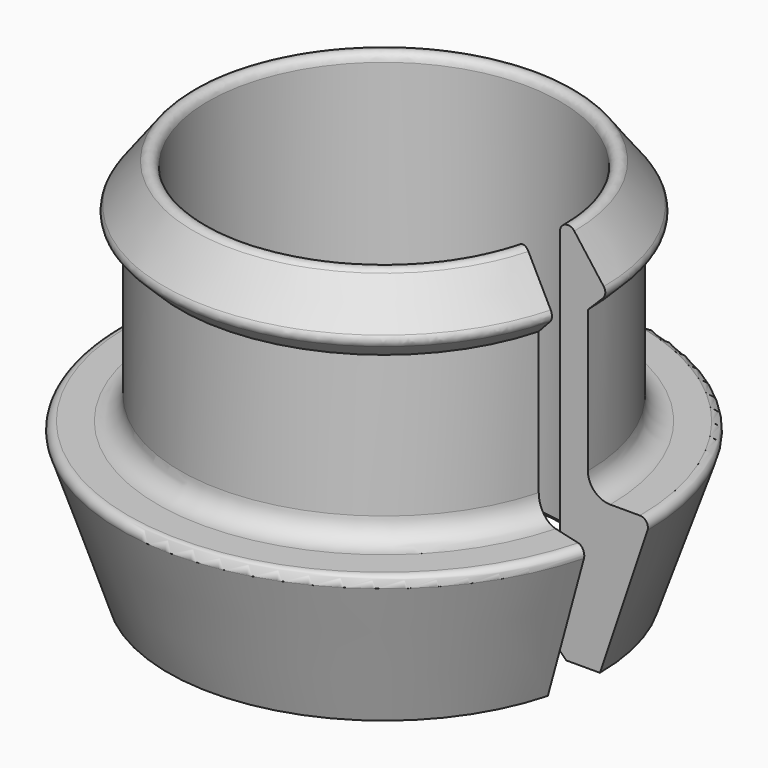
from build123d import *

# Parameters (mm, degrees)
F1_ANGLE = 345
F2_R     = 1.4
F3_R     = 0.5
F4_SIZE  = 0.4


with BuildPart() as f1:
    # F0 (on Front) → F1 (revolve)
    with BuildSketch(Plane.XZ):
        Polygon((14, 6.9582022973), (11, 10.9582022973), (11, -14.0417977027), (13.5, -14.0417977027), (16.7, -4.5676222769), (12.75, -4.5676222769), (12.75, 5.7082022973), align=None)
    revolve(axis=Axis((0, 0, 2.9440160121), (0, 0, 1)), revolution_arc=F1_ANGLE)

    # F2
    f2_edges = [f1.edges().sort_by_distance(p)[0] for p in [
        (-12.640922, 1.664209, -4.567622),
    ]]
    fillet(f2_edges, radius=F2_R)

    # F3
    f3_edges = [f1.edges().sort_by_distance(p)[0] for p in [
        (-16.557129, 2.179787, -4.567622),
        (-13.880228, 1.827367, 6.958202),
        (-10.905893, 1.435788, 10.958202),
    ]]
    fillet(f3_edges, radius=F3_R)

    # F4
    f4_edges = [f1.edges().sort_by_distance(p)[0] for p in [
        (-10.905893, 1.435788, -14.041798),
    ]]
    chamfer(f4_edges, length=F4_SIZE)


solid = f1.part
